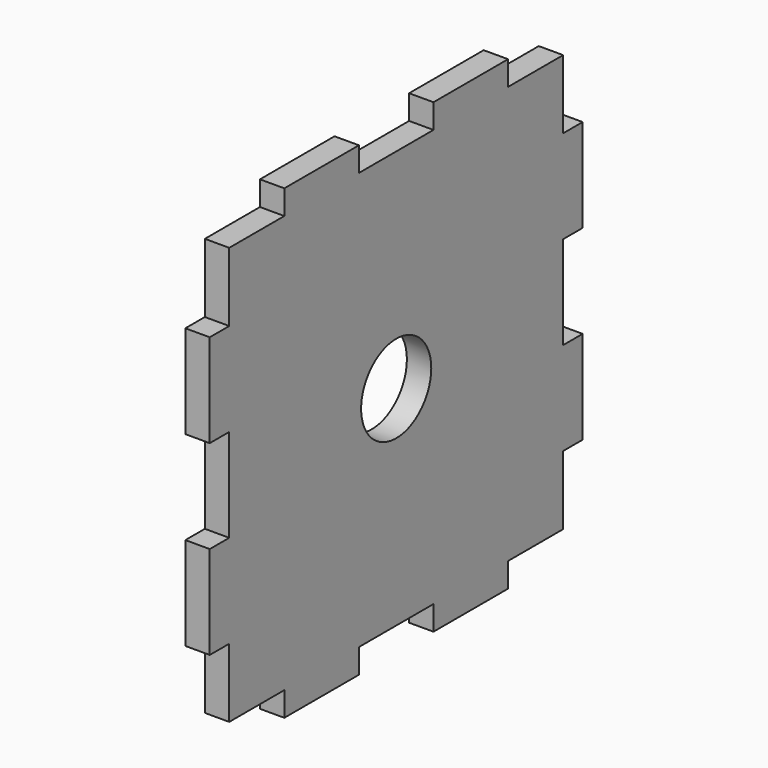
from build123d import *

# Parameters (mm, degrees)
F0_R     = 10.5
F0_W     = 22.3368
F0_H     = 5.842
F0_W_2   = 5.842
F0_H_2   = 22.337
F0_H_3   = 22.3366
F0_W_3   = 22.337
F0_W_4   = 22.3366
F1_DEPTH = 5.842


with BuildPart() as f1:
    # F0 (on Right) → F1 (new body)
    with BuildSketch(Plane.YZ):
        Polygon((-33.5052, 50), (-50, 50), (-50, 33.5052), (-50, 11.1682), (-50, -11.1686), (-50, -33.5052), (-50, -50), (-33.5052, -50), (-11.1682, -50), (11.1686, -50), (33.5052, -50), (50, -50), (50, -33.5052), (50, -11.1686), (50, 11.1682), (50, 33.5052), (50, 50), (33.5052, 50), (11.1684, 50), (-11.1684, 50), align=None)
        Circle(F0_R, mode=Mode.SUBTRACT)
        with Locations((-22.3368, 52.921)):
            Rectangle(F0_W, F0_H)
        with Locations((-52.921, 22.3367)):
            Rectangle(F0_W_2, F0_H_2)
        with Locations((22.3368, 52.921)):
            Rectangle(F0_W, F0_H)
        with Locations((-52.921, -22.3369)):
            Rectangle(F0_W_2, F0_H_3)
        with Locations((52.921, 22.3367)):
            Rectangle(F0_W_2, F0_H_2)
        with Locations((-22.3367, -52.921)):
            Rectangle(F0_W_3, F0_H)
        with Locations((52.921, -22.3369)):
            Rectangle(F0_W_2, F0_H_3)
        with Locations((22.3369, -52.921)):
            Rectangle(F0_W_4, F0_H)
    extrude(amount=F1_DEPTH)


solid = f1.part
